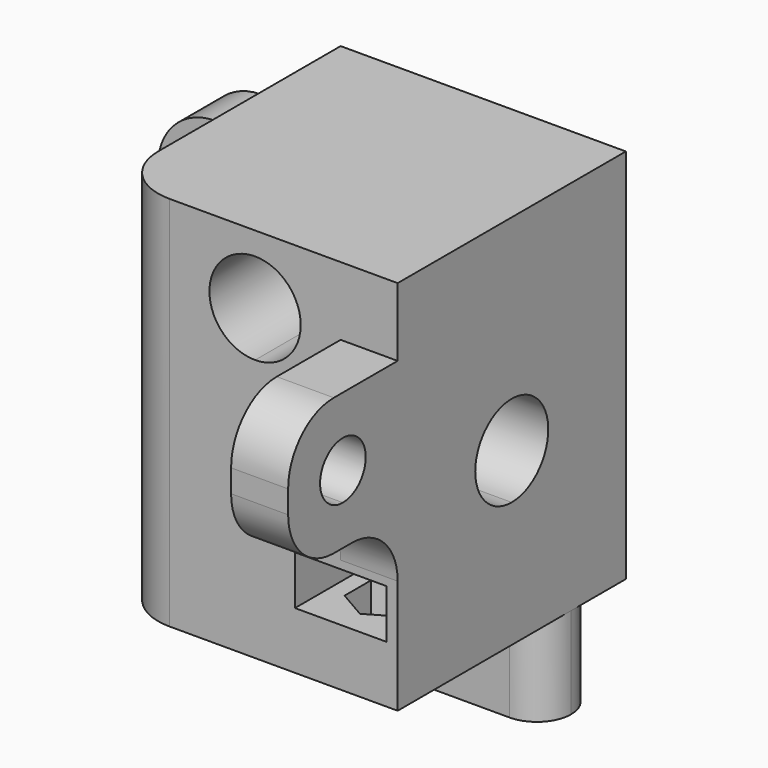
from build123d import *

# Parameters (mm, degrees)
F0_W      = 25
F0_H      = 45
F1_DEPTH  = 25
F3_DEPTH  = 25
F5_DEPTH  = 25
F6_W      = 5
F6_H      = 12
F7_DEPTH  = 12
F9_DEPTH  = 25
F10_R     = 5
F11_W     = 5
F11_H     = 12
F12_DEPTH = 12
F14_DEPTH = 25
F15_R     = 5
F16_W     = 19
F16_H     = 6
F17_DEPTH = 19
F19_DEPTH = 12
F20_R     = 5
F21_R     = 5
F22_DEPTH = 2
F24_DEPTH = 25
F27_DEPTH = 4.3
F28_DEPTH = 5
F30_DEPTH = 8


with BuildPart() as f1:
    # F0 (on Front) → F1 (new body)
    with BuildSketch(Plane.XZ):
        with Locations((12.5, 22.5)):
            Rectangle(F0_W, F0_H)
    extrude(amount=F1_DEPTH)

    # F2 (on face) → F3 (cut)
    with BuildSketch(Plane.XZ.offset(25)):
        with BuildLine():
            ThreePointArc((16.5, 37), (9.6715728753, 39.8284271247), (12.5, 33))
            ThreePointArc((12.5, 33), (15.3284271247, 34.1715728753), (16.5, 37))
        make_face()
    extrude(amount=-F3_DEPTH, mode=Mode.SUBTRACT)

    # F4 (on face) → F5 (cut)
    with BuildSketch(Plane(origin=(0, 0, 0), x_dir=(0, -1, 0), z_dir=(-1, 0, 0))):
        with BuildLine():
            ThreePointArc((16.5, 25), (9.6715728753, 27.8284271247), (12.5, 21))
            ThreePointArc((12.5, 21), (15.3284271247, 22.1715728753), (16.5, 25))
        make_face()
    extrude(amount=-F5_DEPTH, mode=Mode.SUBTRACT)

    # F6 (on face) → F7 (join)
    with BuildSketch(Plane(origin=(0, 0, 0), x_dir=(0, -1, 0), z_dir=(-1, 0, 0))):
        with Locations((2.5, 31)):
            Rectangle(F6_W, F6_H)
    extrude(amount=F7_DEPTH)

    # F8 (on face) → F9 (cut)
    with BuildSketch(Plane.XZ.offset(5)):
        with BuildLine():
            ThreePointArc((-6, 33.5), (-8.5, 31), (-6, 28.5))
            Line((-6, 28.5), (-6, 33.5))
        make_face()
        with BuildLine():
            Line((-6, 33.5), (-6, 28.5))
            ThreePointArc((-6, 28.5), (-4.232233047, 29.232233047), (-3.5, 31))
            ThreePointArc((-3.5, 31), (-4.232233047, 32.767766953), (-6, 33.5))
        make_face()
    extrude(amount=-F9_DEPTH, mode=Mode.SUBTRACT)

    # F10
    f10_edges = [f1.edges().sort_by_distance(p)[0] for p in [
        (-12, -2.5, 37),
        (-12, -2.5, 25),
        (0, -2.5, 37),
    ]]
    fillet(f10_edges, radius=F10_R)

    # F11 (on face) → F12 (join)
    with BuildSketch(Plane.XZ.offset(25)):
        with Locations((22.5, 31)):
            Rectangle(F11_W, F11_H)
    extrude(amount=F12_DEPTH)

    # F13 (on face) → F14 (cut)
    with BuildSketch(Plane(origin=(20, 0, 0), x_dir=(0, -1, 0), z_dir=(-1, 0, 0))):
        with BuildLine():
            ThreePointArc((31, 33.5), (28.5, 31), (31, 28.5))
            Line((31, 28.5), (31, 33.5))
        make_face()
        with BuildLine():
            Line((31, 33.5), (31, 28.5))
            ThreePointArc((31, 28.5), (32.767766953, 29.232233047), (33.5, 31))
            ThreePointArc((33.5, 31), (32.767766953, 32.767766953), (31, 33.5))
        make_face()
    extrude(amount=-F14_DEPTH, mode=Mode.SUBTRACT)

    # F15
    f15_edges = [f1.edges().sort_by_distance(p)[0] for p in [
        (22.5, -37, 37),
        (22.5, -37, 25),
        (22.5, -25, 25),
    ]]
    fillet(f15_edges, radius=F15_R)

    # F16 (on face) → F17 (cut)
    with BuildSketch(Plane(origin=(0, 0, 0), x_dir=(0, -1, 0), z_dir=(-1, 0, 0))):
        with Locations((15.5, 7)):
            Rectangle(F16_W, F16_H)
    extrude(amount=-F17_DEPTH, mode=Mode.SUBTRACT)

    # F18 (on face) → F19 (cut)
    with BuildSketch(Plane(origin=(0, 0, 0), x_dir=(1, 0, 0), z_dir=(0, 0, -1))):
        Polygon((17.5, 21.443375673), (17.5, 18.556624327), (20, 17.1132486541), (22.5, 18.556624327), (22.5, 20), (20, 20), (20, 22.8867513459), align=None)
        Polygon((22.5, 21.443375673), (20, 22.8867513459), (20, 20), (22.5, 20), align=None)
    extrude(amount=-F19_DEPTH, mode=Mode.SUBTRACT)

    # F20
    f20_edges = [f1.edges().sort_by_distance(p)[0] for p in [
        (19, -6, 7),
    ]]
    fillet(f20_edges, radius=F20_R)

    # F21
    f21_edges = [f1.edges().sort_by_distance(p)[0] for p in [
        (0, -25, 2),
        (0, -25, 27.5),
    ]]
    fillet(f21_edges, radius=F21_R)

    # F22 (cut): a face of the model
    f22_faces = [f1.faces().sort_by_distance(p)[0] for p in [
        (12.59855993, -12.40144007, 45),
    ]]
    extrude(f22_faces, amount=-F22_DEPTH, mode=Mode.SUBTRACT)

    # F23 (on face) → F24 (cut)
    with BuildSketch(Plane.XZ.offset(25)):
        Polygon((25, 10), (19, 10), (19, 4), (5, 4), (5, 0), (25, 0), align=None)
        Polygon((19, 4), (19, 10), (5, 10), (0, 10), (0, 0), (5, 0), (5, 4), align=None)
    extrude(amount=-F24_DEPTH, mode=Mode.SUBTRACT)

    # F26 (on offset) → F27 (cut)
    with BuildSketch(Plane(origin=(0, 0, 15), x_dir=(1, 0, 0), z_dir=(0, 0, -1))):
        Polygon((24, 17.6905989232), (24, 22.3094010768), (20, 24.6188021535), (16, 22.3094010768), (16, 17.6905989232), (20, 15.3811978465), align=None)
        Polygon((20, 24.6188021535), (24, 22.3094010768), (24, 30.3094010768), (16, 30.3094010768), (16, 22.3094010768), align=None)
    extrude(amount=-F27_DEPTH, mode=Mode.SUBTRACT)

    # F28 (cut): a face of the model
    f28_faces = [f1.faces().sort_by_distance(p)[0] for p in [
        (20, -20, 12),
    ]]
    extrude(f28_faces, amount=-F28_DEPTH, mode=Mode.SUBTRACT)

    # F29 (on face) → F30 (join)
    with BuildSketch(Plane(origin=(0, 0, 10), x_dir=(1, 0, 0), z_dir=(0, 0, -1))):
        with BuildLine():
            ThreePointArc((0, 6), (0.8786796564, 3.8786796564), (3, 3))
            Line((3, 3), (22, 3))
            ThreePointArc((22, 3), (24.1213203436, 3.8786796564), (25, 6))
            ThreePointArc((25, 6), (24.1213203436, 8.1213203436), (22, 9))
            Line((22, 9), (3, 9))
            ThreePointArc((3, 9), (0.8786796564, 8.1213203436), (0, 6))
        make_face()
    extrude(amount=F30_DEPTH)


solid = f1.part
